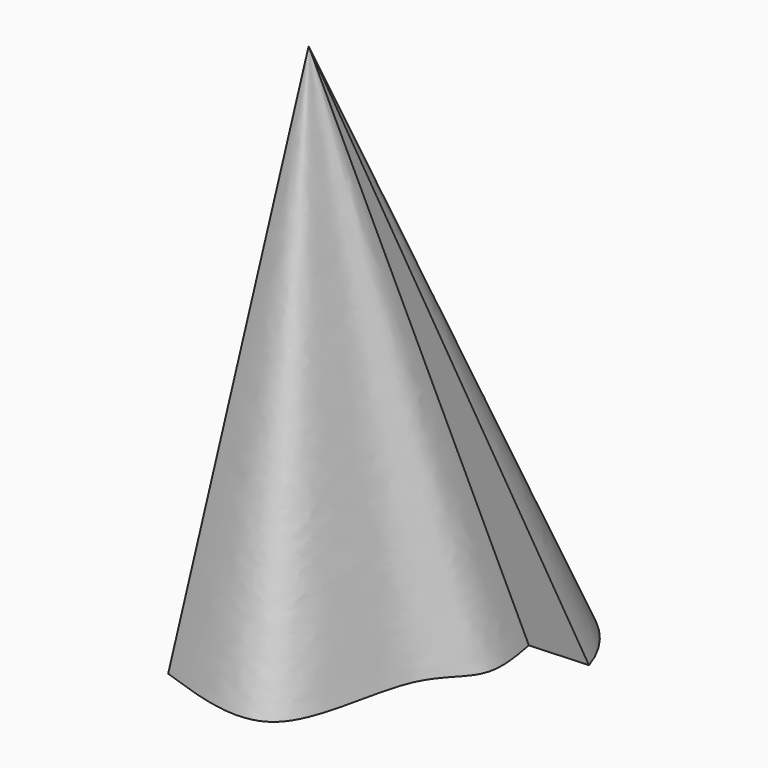
from build123d import *


with BuildPart() as f3:
    # F0 (on Top) → F3 section 0
    with BuildSketch(Plane.XY, mode=Mode.PRIVATE) as f3_s0:
        with BuildLine():
            Line((23.609507829, 22.0063943416), (34.3941003084, 22.5893463939))
            ThreePointArc((34.3941003084, 22.5893463939), (20.4649624491, 37.6183745643), (0, 36.5801639855))
            ThreePointArc((0, 36.5801639855), (-8.1446175856, 23.9489166784), (-19.5288527757, 14.1365574673))
            Line((-19.5288527757, 14.1365574673), (-11.9504919276, -17.9257374257))
            add(Edge.make_bspline(
                [(-11.9504919276, -17.9257374257), (-3.2921123574, -20.9871153222), (14.3778327289, -27.2347484828), (15.0920027905, 4.2111228661), (25.8508491567, 9.7879606885), (24.3640357839, 17.8931655162), (23.609507829, 22.0063943416)],
                knots=[0, 0, 0, 0, 0.2906450611, 0.5931458915, 0.7935297032, 1, 1, 1, 1], degree=3))
        make_face()
    loft([f3_s0.sketch, Vertex(0, 0, 100)])


solid = f3.part
